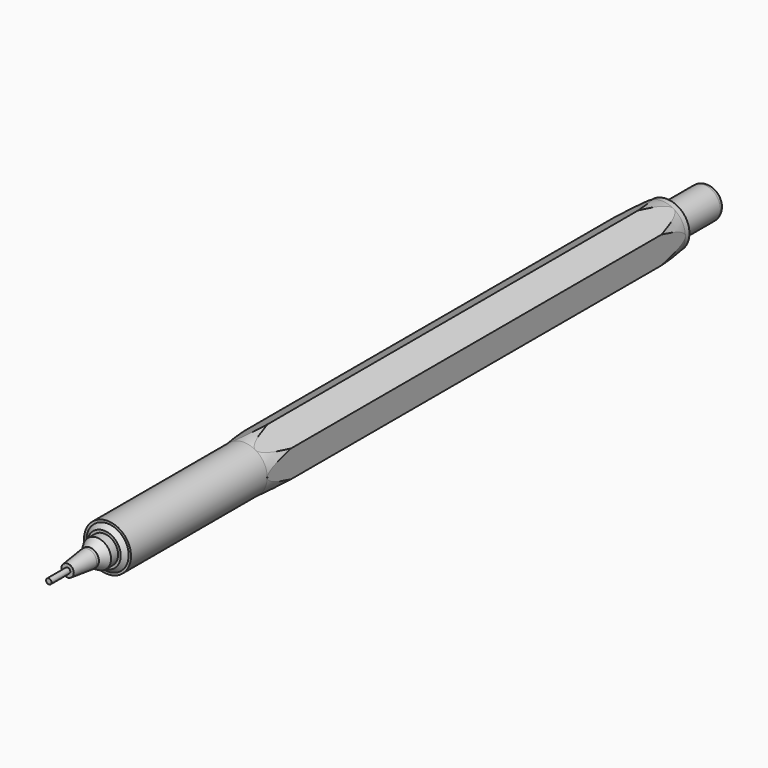
from build123d import *

# Parameters (mm, degrees)
F1_DEPTH  = 89
F2_R      = 4
F3_DEPTH  = 29
F4_R      = 6
F4_R_2    = 4
F5_DEPTH  = 5.2
F5_TAPER  = 7
F6_R      = 6
F6_R_2    = 4
F7_DEPTH  = 5.2
F7_TAPER  = 7
F8_R      = 3.6
F9_DEPTH  = 0.75
F9_TAPER  = 45
F10_R     = 2.4
F11_DEPTH = 1.5
F12_R     = 2.4
F13_DEPTH = 1.5
F13_TAPER = 30
F14_R     = 1.534
F15_DEPTH = 0.5
F16_R     = 1.534
F17_DEPTH = 4.25
F17_TAPER = 6.5
F18_R     = 0.465
F19_DEPTH = 4
F20_R     = 3.9
F21_DEPTH = 1
F22_R     = 2.75
F23_DEPTH = 9
F24_R     = 1


with BuildPart() as f1:
    # F0 (on Front) → F1 (new body)
    with BuildSketch(Plane.XZ):
        Polygon((4, -2.3094010768), (4, 2.3094010768), (0, 4.6188021535), (-4, 2.3094010768), (-4, -2.3094010768), (0, -4.6188021535), align=None)
    extrude(amount=F1_DEPTH)

    # F2 (on face) → F3 (join)
    with BuildSketch(Plane.XZ.offset(89)):
        Circle(F2_R)
    extrude(amount=F3_DEPTH)

    # F4 (on face) → F5 (cut)
    with BuildSketch(Plane.XZ.offset(89)):
        Circle(F4_R)
        Circle(F4_R_2, mode=Mode.SUBTRACT)
    extrude(amount=-F5_DEPTH, taper=F5_TAPER, mode=Mode.SUBTRACT)

    # F6 (on face) → F7 (cut)
    with BuildSketch(Plane(origin=(0, 0, 0), x_dir=(-1, 0, 0), z_dir=(0, 1, 0))):
        Circle(F6_R)
        Circle(F6_R_2, mode=Mode.SUBTRACT)
    extrude(amount=-F7_DEPTH, taper=F7_TAPER, mode=Mode.SUBTRACT)


with BuildPart() as f9:
    # F8 (on face) → F9 (new body)
    with BuildSketch(Plane.XZ.offset(118)):
        Circle(F8_R)
    extrude(amount=F9_DEPTH, taper=F9_TAPER)

    # F10 (on face) → F11 (join)
    with BuildSketch(Plane.XZ.offset(118.75)):
        Circle(F10_R)
    extrude(amount=F11_DEPTH)

    # F12 (on face) → F13 (join)
    with BuildSketch(Plane.XZ.offset(120.25)):
        Circle(F12_R)
    extrude(amount=F13_DEPTH, taper=F13_TAPER)

    # F14 (on face) → F15 (join)
    with BuildSketch(Plane.XZ.offset(121.75)):
        Circle(F14_R)
    extrude(amount=F15_DEPTH)

    # F16 (on face) → F17 (join)
    with BuildSketch(Plane.XZ.offset(122.25)):
        Circle(F16_R)
    extrude(amount=F17_DEPTH, taper=F17_TAPER)

    # F18 (on face) → F19 (join)
    with BuildSketch(Plane.XZ.offset(126.5)):
        Circle(F18_R)
    extrude(amount=F19_DEPTH)


with BuildPart() as f21:
    # F20 (on face) → F21 (new body)
    with BuildSketch(Plane(origin=(0, 0, 0), x_dir=(-1, 0, 0), z_dir=(0, 1, 0))):
        Circle(F20_R)
    extrude(amount=F21_DEPTH)

    # F22 (on face) → F23 (join)
    with BuildSketch(Plane(origin=(0, 1, 0), x_dir=(-1, 0, 0), z_dir=(0, 1, 0))):
        Circle(F22_R)
    extrude(amount=F23_DEPTH)

    # F24
    f24_edges = [f21.edges().sort_by_distance(p)[0] for p in [
        (2.75, 10, 0),
    ]]
    fillet(f24_edges, radius=F24_R)


solid = Compound([f1.part, f9.part, f21.part])
